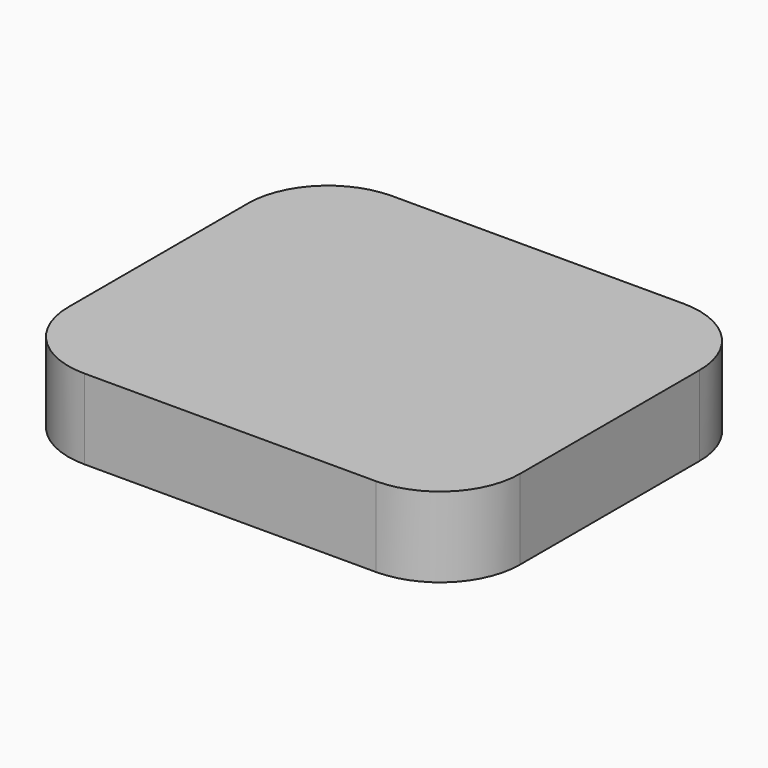
from build123d import *

# Parameters (mm, degrees)
F0_W     = 56.473431
F0_H     = 48.084262
F1_DEPTH = 10
F2_R     = 10
F3_W     = 56.473431
F3_H     = 48.084262
F4_DEPTH = 10
F5_R     = 10


with BuildPart() as f1:
    # F0 (on Top) → F1 (new body)
    with BuildSketch(Plane.XY):
        with Locations((28.236715, -24.042131)):
            Rectangle(F0_W, F0_H)
    extrude(amount=F1_DEPTH)

    # F2
    f2_edges = [f1.edges().sort_by_distance(p)[0] for p in [
        (56.473431, 0, 5),
        (0, 0, 5),
        (0, -48.084262, 5),
        (56.473431, -48.084262, 5),
    ]]
    fillet(f2_edges, radius=F2_R)


with BuildPart() as f4:
    # F3 (on Top) → F4 (new body)
    with BuildSketch(Plane.XY):
        with Locations((28.236715, -24.042131)):
            Rectangle(F3_W, F3_H)
    extrude(amount=F4_DEPTH)

    # F5
    f5_edges = [f4.edges().sort_by_distance(p)[0] for p in [
        (56.473431, 0, 5),
        (0, 0, 5),
        (0, -48.084262, 5),
        (56.473431, -48.084262, 5),
    ]]
    fillet(f5_edges, radius=F5_R)


solid = Compound([f1.part, f4.part])
